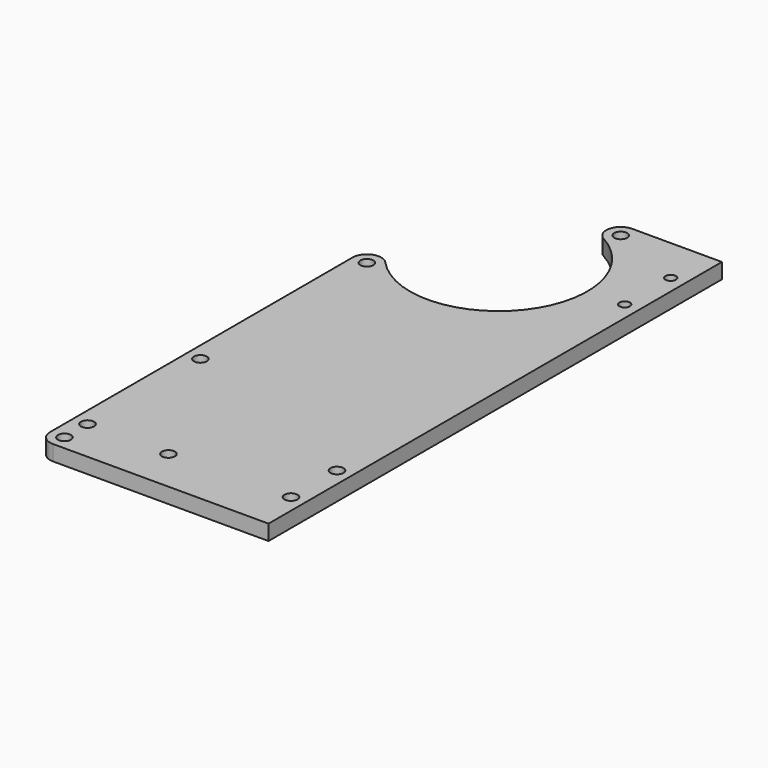
from build123d import *

# Parameters (mm, degrees)
F0_R     = 2.15265
F0_R_2   = 1.7272
F1_DEPTH = 5.08


with BuildPart() as f1:
    # F0 (on Top) → F1 (new body)
    with BuildSketch(Plane.XY):
        with BuildLine():
            Line((-25.144629, -153.030418), (46.237093, -153.030418))
            Line((46.237093, -153.030418), (46.237093, 34.62922))
            Line((46.237093, 34.62922), (16.520329, 34.62922))
            ThreePointArc((16.520329, 34.62922), (11.908991, 31.057083), (14.215167, 25.699271))
            ThreePointArc((14.215167, 25.699271), (23.079648, -18.161865), (-21.636076, -19.859599))
            ThreePointArc((-21.636076, -19.859599), (-26.872623, -18.64212), (-29.907129, -23.080075))
            Line((-29.907129, -23.080075), (-29.907129, -148.267918))
            ThreePointArc((-29.907129, -148.267918), (-28.512225, -151.635514), (-25.144629, -153.030418))
        make_face()
        with Locations((-25.144629, -148.267918)):
            Circle(F0_R, mode=Mode.SUBTRACT)
        with Locations((-25.144629, -138.742918)):
            Circle(F0_R, mode=Mode.SUBTRACT)
        with Locations((1.652371, -138.742918)):
            Circle(F0_R, mode=Mode.SUBTRACT)
        with Locations((-25.144629, -92.017535)):
            Circle(F0_R, mode=Mode.SUBTRACT)
        with Locations((41.474593, -137.790418)):
            Circle(F0_R, mode=Mode.SUBTRACT)
        with Locations((41.474593, -118.740418)):
            Circle(F0_R, mode=Mode.SUBTRACT)
        with Locations((-25.144629, -23.080075)):
            Circle(F0_R, mode=Mode.SUBTRACT)
        with Locations((16.520329, 29.86672)):
            Circle(F0_R, mode=Mode.SUBTRACT)
        with Locations((41.474593, 0.33922)):
            Circle(F0_R_2, mode=Mode.SUBTRACT)
        with Locations((41.474593, 19.38922)):
            Circle(F0_R_2, mode=Mode.SUBTRACT)
    extrude(amount=F1_DEPTH)


solid = f1.part
